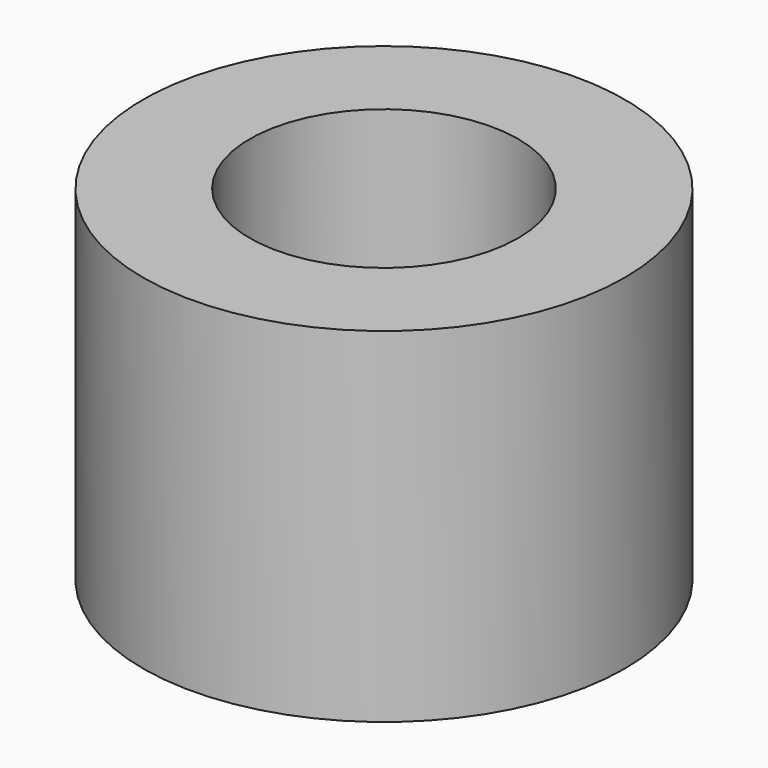
from build123d import *

# Parameters (mm, degrees)
F0_R     = 8.89
F0_R_2   = 4.953
F1_DEPTH = 12.7
F3_DEPTH = 25.4
F5_R     = 2.8575
F6_DEPTH = 2.54


with BuildPart() as f1:
    # F0 (on Top) → F1 (new body)
    with BuildSketch(Plane.XY):
        Circle(F0_R)
        Circle(F0_R_2, mode=Mode.SUBTRACT)
    extrude(amount=F1_DEPTH)

    # F2 (on Front) → F3 (cut)
    with BuildSketch(Plane.XZ):
        with BuildLine():
            ThreePointArc((0, 4.699), (1.167433, 5.182567), (1.651, 6.35))
            ThreePointArc((1.651, 6.35), (-1.167433, 7.517433), (0, 4.699))
        make_face()
    extrude(amount=-F3_DEPTH, mode=Mode.SUBTRACT)

    # F5 (on offset) → F6 (cut)
    with BuildSketch(Plane.XZ.offset(-8.89)):
        with Locations((0, 6.35)):
            Circle(F5_R)
    extrude(amount=F6_DEPTH, mode=Mode.SUBTRACT)


solid = f1.part
